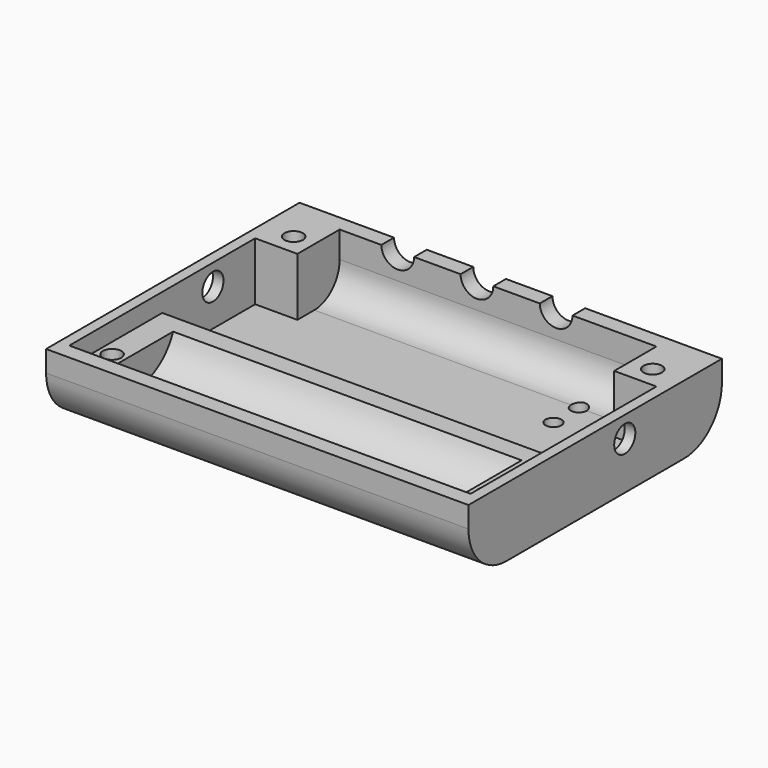
from build123d import *

# Parameters (mm, degrees)
PAD_DEPTH       = 80
POCKET_START    = -7
SKETCH001_R     = 9.5
POCKET_DEPTH    = 66
SKETCH007_R     = 3.1
POCKET005_DEPTH = 5
POCKET006_START = -10
POCKET006_DEPTH = 60
SKETCH009_R     = 1.75
POCKET007_DEPTH = 13.001
SKETCH010_W     = 22
SKETCH010_H     = 8
POCKET008_DEPTH = 11
SKETCH011_R     = 1.5
POCKET009_DEPTH = 5
SKETCH012_R     = 2.75
POCKET010_DEPTH = 3
SKETCH013_R     = 2.5
POCKET011_DEPTH = 80.001
POCKET012_START = -2
SKETCH014_W     = 23
SKETCH014_H     = 7
POCKET012_DEPTH = 76
POCKET013_DEPTH = 0.3
POCKET014_DEPTH = 0.3


with BuildPart() as part:
    # Sketch → Pad (new body)
    with BuildSketch(Plane.YZ):
        with BuildLine():
            Line((0, 0), (60, 0))
            Line((60, 0), (60, -4))
            ThreePointArc((51, -13), (57.363961, -10.363961), (60, -4))
            Line((51, -13), (9, -13))
            ThreePointArc((0, -4), (2.636039, -10.363961), (9, -13))
            Line((0, -4), (0, 0))
        make_face()
    extrude(amount=PAD_DEPTH)

    # Sketch001 (on Face8 of Pad) → Pocket (cut)
    with BuildSketch(Plane.YZ.offset(80).offset(POCKET_START)):
        with Locations((12.5, 0)):
            Circle(SKETCH001_R)
    extrude(amount=-POCKET_DEPTH, mode=Mode.SUBTRACT)

    # Sketch007 → Pocket005 (cut)
    with BuildSketch(Plane.ZX.offset(60)):
        with Locations((0, 51)):
            Circle(SKETCH007_R)
        with Locations((0, 36)):
            Circle(SKETCH007_R)
        with Locations((0, 21)):
            Circle(SKETCH007_R)
    extrude(amount=-POCKET005_DEPTH, mode=Mode.SUBTRACT)

    # Sketch008 (on Face5 of Pocket005) → Pocket006 (cut)
    with BuildSketch(Plane.YZ.offset(80).offset(POCKET006_START)):
        with BuildLine():
            Line((57, 0), (25, 0))
            Line((25, 0), (25, -11))
            Line((25, -11), (51, -11))
            ThreePointArc((51, -11), (55.242641, -9.242641), (57, -5))
            Line((57, -5), (57, 0))
        make_face()
    extrude(amount=-POCKET006_DEPTH, mode=Mode.SUBTRACT)

    # Sketch009 (on Face3 of Pocket006) → Pocket007 (cut, through all)
    with BuildSketch(Plane(origin=(0, 0, 0), x_dir=(0, -1, 0), z_dir=(0, 0, 1))):
        with Locations((-51, 74.1)):
            Circle(SKETCH009_R)
        with Locations((-10, 75.5)):
            Circle(SKETCH009_R)
        with Locations((-51, 6.1)):
            Circle(SKETCH009_R)
        with Locations((-10, 4.5)):
            Circle(SKETCH009_R)
    extrude(amount=-POCKET007_DEPTH, mode=Mode.SUBTRACT)

    # Sketch010 (on Face3 of Pocket007) → Pocket008 (cut)
    with BuildSketch(Plane(origin=(0, 0, 0), x_dir=(0, -1, 0), z_dir=(0, 0, 1))):
        with Locations((-36, 74)):
            Rectangle(SKETCH010_W, SKETCH010_H)
        with Locations((-36, 6)):
            Rectangle(SKETCH010_W, SKETCH010_H)
    extrude(amount=-POCKET008_DEPTH, mode=Mode.SUBTRACT)

    # Sketch011 (on Face6 of Pocket008) → Pocket009 (cut)
    with BuildSketch(Plane.YX.offset(13)):
        with Locations((51, 60.1)):
            Circle(SKETCH011_R)
        with Locations((45, 60.1)):
            Circle(SKETCH011_R)
    extrude(amount=-POCKET009_DEPTH, mode=Mode.SUBTRACT)

    # Sketch012 (on Face6 of Pocket009) → Pocket010 (cut)
    with BuildSketch(Plane.YX.offset(13)):
        with Locations((51, 6.1)):
            Circle(SKETCH012_R)
        with Locations((10, 4.5)):
            Circle(SKETCH012_R)
        with Locations((10, 75.5)):
            Circle(SKETCH012_R)
        with Locations((51, 74.1)):
            Circle(SKETCH012_R)
    extrude(amount=-POCKET010_DEPTH, mode=Mode.SUBTRACT)

    # Sketch013 (on Face4 of Pocket010) → Pocket011 (cut, through all)
    with BuildSketch(Plane(origin=(0, 0, 0), x_dir=(0, 1, 0), z_dir=(-1, 0, 0))):
        with Locations((37, 4)):
            Circle(SKETCH013_R)
    extrude(amount=-POCKET011_DEPTH, mode=Mode.SUBTRACT)

    # Sketch014 (on Face4 of Pocket011) → Pocket012 (cut)
    with BuildSketch(Plane(origin=(0, 0, 0), x_dir=(0, 1, 0), z_dir=(-1, 0, 0)).offset(POCKET012_START)):
        with Locations((14.5, 0)):
            Rectangle(SKETCH014_W, SKETCH014_H)
    extrude(amount=-POCKET012_DEPTH, mode=Mode.SUBTRACT)

    # Sketch015 (on Face6 of Pocket012) → Pocket013 (cut)
    with BuildSketch(Plane.YX.offset(13)):
        Polygon((43.5, 57.698076), (45, 55.1), (46.5, 57.698076), align=None)
    extrude(amount=-POCKET013_DEPTH, mode=Mode.SUBTRACT)

    # Sketch016 (on Face6 of Pocket013) → Pocket014 (cut)
    with BuildSketch(Plane.YX.offset(13)):
        Polygon((47.5, 62.501924), (50.5, 62.501924), (49, 65.1), align=None)
    extrude(amount=-POCKET014_DEPTH, mode=Mode.SUBTRACT)


solid = part.part
